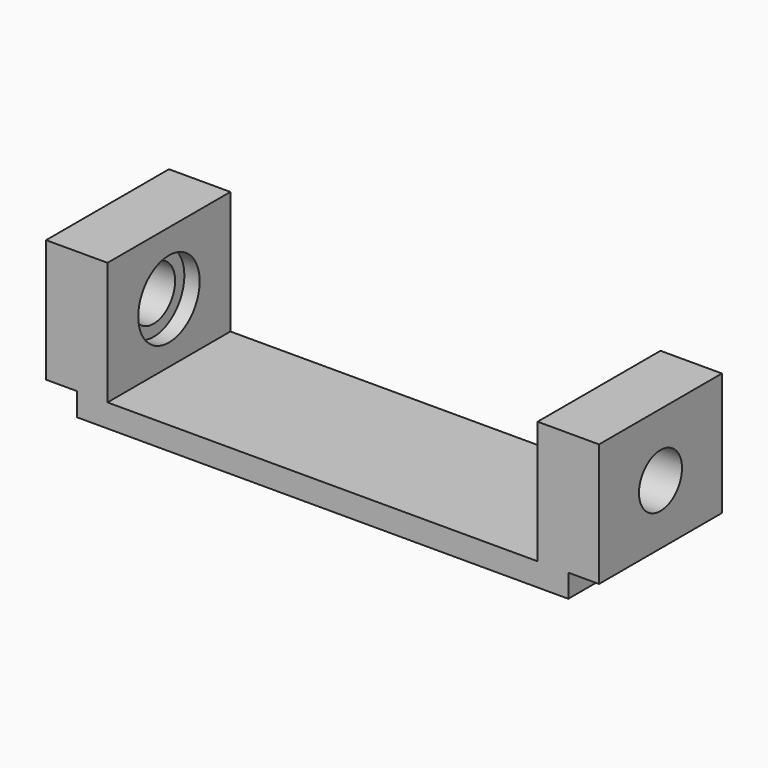
from build123d import *

# Parameters (mm, degrees)
F0_W     = 32
F0_H     = 10
F1_DEPTH = 1.5
F2_W     = 4
F2_H     = 10
F3_DEPTH = 8
F4_R     = 2.5
F5_DEPTH = 50
F6_R     = 2.5
F6_R_2   = 1.75
F7_DEPTH = 3
F8_R     = 2.5
F8_R_2   = 1.75
F9_DEPTH = 3


with BuildPart() as f1:
    # F0 (on Top) → F1 (new body)
    with BuildSketch(Plane.XY):
        Rectangle(F0_W, F0_H)
    extrude(amount=F1_DEPTH)

    # F2 (on face) → F3 (join)
    with BuildSketch(Plane.XY.offset(1.5)):
        with Locations((-16, 0)):
            Rectangle(F2_W, F2_H)
        with Locations((16, 0)):
            Rectangle(F2_W, F2_H)
    extrude(amount=F3_DEPTH)

    # F4 (on face) → F5 (cut)
    with BuildSketch(Plane(origin=(-18, 0, 0), x_dir=(0, -1, 0), z_dir=(-1, 0, 0))):
        with Locations((0, 5.397753)):
            Circle(F4_R)
    extrude(amount=-F5_DEPTH, mode=Mode.SUBTRACT)

    # F6 (on face) → F7 (join)
    with BuildSketch(Plane(origin=(-18, 0, 0), x_dir=(0, -1, 0), z_dir=(-1, 0, 0))):
        with Locations((0, 5.397753)):
            Circle(F6_R)
        with Locations((0, 5.397753)):
            Circle(F6_R_2, mode=Mode.SUBTRACT)
    extrude(amount=-F7_DEPTH)

    # F8 (on face) → F9 (join)
    with BuildSketch(Plane.YZ.offset(18)):
        with Locations((0, 5.397753)):
            Circle(F8_R)
        with Locations((0, 5.397753)):
            Circle(F8_R_2, mode=Mode.SUBTRACT)
    extrude(amount=-F9_DEPTH)


solid = f1.part
